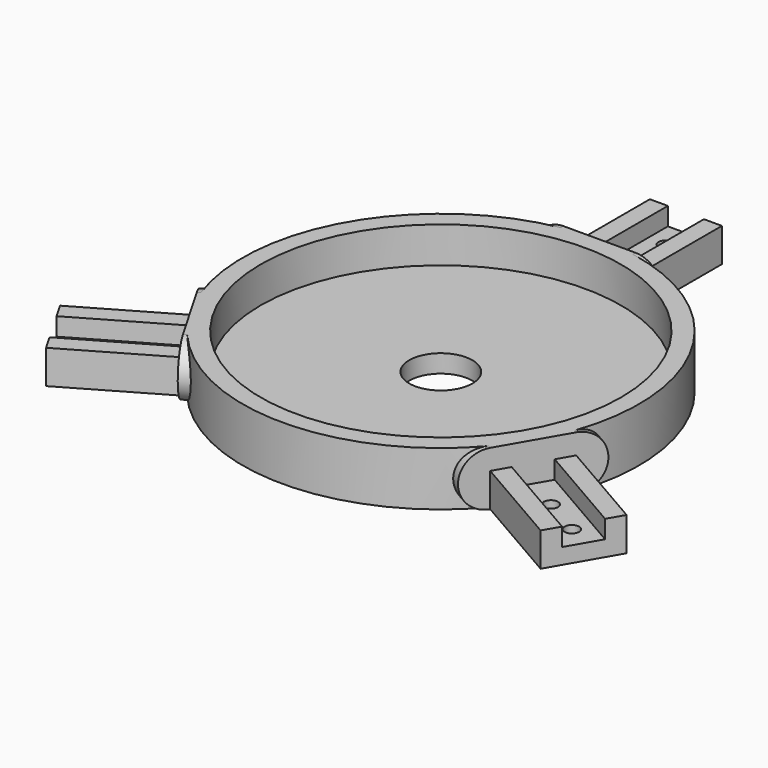
from build123d import *

# Parameters (mm, degrees)
F1_DEPTH  = 60
F3_DEPTH  = 5
F4_R      = 4
F5_DEPTH  = 30.001
F6_DEPTH  = 10
F10_COUNT = 3
F10_ANGLE = 240
F8_W      = 110
F8_H      = 30
F12_R     = 100
F13_DEPTH = 20
F14_R     = 17.5157850189
F15_DEPTH = 10.0010001


with BuildPart() as f1:
    # F0 (on Front) → F1 (new body)
    with BuildSketch(Plane.XZ):
        Polygon((-20, 18.7272732889), (-20, 0), (20, 0), (20, 18.7272732889), (10, 18.7272732889), (10, 8.7272732889), (-10, 8.7272732889), (-10, 18.7272732889), align=None)
    extrude(amount=F1_DEPTH)

    # F2 (on face) → F3 (join)
    with BuildSketch(Plane.XZ.offset(60)):
        with BuildLine():
            ThreePointArc((-20, 30), (-35, 15), (-20, 0))
            Line((-20, 0), (20, 0))
            ThreePointArc((20, 0), (35, 15), (20, 30))
            Line((20, 30), (-20, 30))
        make_face()
    extrude(amount=F3_DEPTH)

    # F4 (on Top) → F5 (cut, through all)
    with BuildSketch(Plane.XY):
        with Locations((0, -39)):
            Circle(F4_R)
        with Locations((0, -14)):
            Circle(F4_R)
    extrude(amount=F5_DEPTH, mode=Mode.SUBTRACT)

    # F2 (on face) → F6 (join)
    with BuildSketch(Plane.XZ.offset(60)):
        with BuildLine():
            ThreePointArc((-20, 30), (-35, 15), (-20, 0))
            Line((-20, 0), (20, 0))
            ThreePointArc((20, 0), (35, 15), (20, 30))
            Line((20, 30), (-20, 30))
        make_face()
    extrude(amount=F6_DEPTH)


with BuildPart() as f10_1:
    # F10: instance of F1
    add(f1.part.rotate(Axis((0, -170, 15), (0, 0, 1)), 1 * F10_ANGLE / (F10_COUNT - 1)))


with BuildPart() as f10_2:
    # F10: instance of F1
    add(f1.part.rotate(Axis((0, -170, 15), (0, 0, 1)), 2 * F10_ANGLE / (F10_COUNT - 1)))


with BuildPart() as f1_1:
    add(f1.part)

    add(f10_1.part)  # F11 merges F10_1

    add(f10_2.part)  # F11 merges F10_2
    # F8 (on offset) → F11 (revolve)
    with BuildSketch(Plane.XZ.offset(170)):
        with Locations((55, 15)):
            Rectangle(F8_W, F8_H)
    revolve(axis=Axis((0, -170, 4.4428613037), (0, 0, 1)))

    # F12 (on face) → F13 (cut)
    with BuildSketch(Plane.XY.offset(30)):
        with Locations((0, -170)):
            Circle(F12_R)
    extrude(amount=-F13_DEPTH, mode=Mode.SUBTRACT)

    # F14 (on face) → F15 (cut, through all)
    with BuildSketch(Plane.XY.offset(10)):
        with Locations((0, -170)):
            Circle(F14_R)
    extrude(amount=-F15_DEPTH, mode=Mode.SUBTRACT)


solid = f1_1.part
